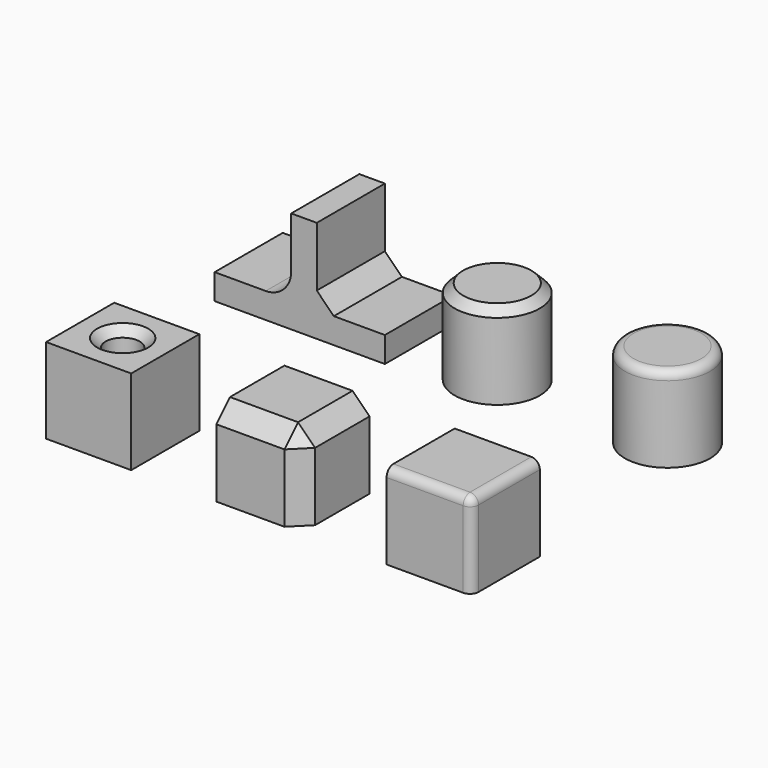
from build123d import *

# Parameters (mm, degrees)
BOX001_W          = 10
BOX001_H          = 10
BOX001_DEPTH      = 10
FILLET_R          = 1
BOX_W             = 10
BOX_H             = 10
BOX_DEPTH         = 10
CHAMFER_SIZE      = 2
CYLINDER_R        = 2
CYLINDER_DEPTH    = 10
BOX002_W          = 10
BOX002_H          = 10
BOX002_DEPTH      = 10
CHAMFER001_SIZE   = 1
CYLINDER001_R     = 5
CYLINDER001_DEPTH = 10
FILLET001_R       = 1
CYLINDER002_R     = 5
CYLINDER002_DEPTH = 10
CHAMFER002_SIZE   = 1
BOX003_W          = 20
BOX003_H          = 10
BOX003_DEPTH      = 3
BOX004_W          = 3
BOX004_H          = 10
BOX004_DEPTH      = 12
CHAMFER003_SIZE   = 2
FILLET002_R       = 3


with BuildPart() as fillet_body:
    # Box001 → Box001 (new body)
    with BuildSketch(Plane(origin=(40, 0, 0), x_dir=(1, 0, 0), z_dir=(0, 0, 1))):
        with Locations((5, 5)):
            Rectangle(BOX001_W, BOX001_H)
    extrude(amount=BOX001_DEPTH)

    # Fillet
    fillet_edges = [fillet_body.edges().sort_by_distance(p)[0] for p in [
        (50, 0, 5),
        (50, 5, 10),
        (45, 0, 10),
    ]]
    fillet(fillet_edges, radius=FILLET_R)


with BuildPart() as chamfer_body:
    # Box → Box (new body)
    with BuildSketch(Plane(origin=(20, 0, 0), x_dir=(1, 0, 0), z_dir=(0, 0, 1))):
        with Locations((5, 5)):
            Rectangle(BOX_W, BOX_H)
    extrude(amount=BOX_DEPTH)

    # Chamfer
    chamfer_edges = [chamfer_body.edges().sort_by_distance(p)[0] for p in [
        (30, 0, 5),
        (30, 5, 10),
        (25, 0, 10),
    ]]
    chamfer(chamfer_edges, length=CHAMFER_SIZE)


with BuildPart() as cylinder:
    # Cylinder → Cylinder (new body)
    with BuildSketch(Plane.XY.offset(1)):
        Circle(CYLINDER_R)
    extrude(amount=CYLINDER_DEPTH)


with BuildPart() as chamfer001:
    # Box002 → Box002 (new body)
    with BuildSketch(Plane(origin=(-5, -5, 0), x_dir=(1, 0, 0), z_dir=(0, 0, 1))):
        with Locations((5, 5)):
            Rectangle(BOX002_W, BOX002_H)
    extrude(amount=BOX002_DEPTH)

    # Cut: cut Cylinder
    add(cylinder.part, mode=Mode.SUBTRACT)


with BuildPart() as chamfer001_1:
    # Cut placement: moved
    add(chamfer001.part.moved(Location((5, 5, 0))))

    # Chamfer001
    chamfer001_edges = [chamfer001_1.edges().sort_by_distance(p)[0] for p in [
        (3, 5, 10),
    ]]
    chamfer(chamfer001_edges, length=CHAMFER001_SIZE)


with BuildPart() as fillet001:
    # Cylinder001 → Cylinder001 (new body)
    with BuildSketch(Plane(origin=(45, 35, 0), x_dir=(1, 0, 0), z_dir=(0, 0, 1))):
        Circle(CYLINDER001_R)
    extrude(amount=CYLINDER001_DEPTH)

    # Fillet001
    fillet001_edges = [fillet001.edges().sort_by_distance(p)[0] for p in [
        (40, 35, 10),
    ]]
    fillet(fillet001_edges, radius=FILLET001_R)


with BuildPart() as chamfer002:
    # Cylinder002 → Cylinder002 (new body)
    with BuildSketch(Plane(origin=(25, 35, 0), x_dir=(1, 0, 0), z_dir=(0, 0, 1))):
        Circle(CYLINDER002_R)
    extrude(amount=CYLINDER002_DEPTH)

    # Chamfer002
    chamfer002_edges = [chamfer002.edges().sort_by_distance(p)[0] for p in [
        (20, 35, 10),
    ]]
    chamfer(chamfer002_edges, length=CHAMFER002_SIZE)


with BuildPart() as base:
    # Box003 → Box003 (new body)
    with BuildSketch(Plane.XY):
        with Locations((10, 5)):
            Rectangle(BOX003_W, BOX003_H)
    extrude(amount=BOX003_DEPTH)


with BuildPart() as fillet002:
    # Box004 → Box004 (new body)
    with BuildSketch(Plane(origin=(9, 0, 0), x_dir=(1, 0, 0), z_dir=(0, 0, 1))):
        with Locations((1.5, 5)):
            Rectangle(BOX004_W, BOX004_H)
    extrude(amount=BOX004_DEPTH)

    # Fusion: union base
    add(base.part)


with BuildPart() as fillet002_1:
    # Fusion placement: moved
    add(fillet002.part.moved(Location((-5, 31, 0))))

    # Chamfer003
    chamfer003_edges = [fillet002_1.edges().sort_by_distance(p)[0] for p in [
        (7, 36, 3),
    ]]
    chamfer(chamfer003_edges, length=CHAMFER003_SIZE)

    # Fillet002
    fillet002_edges = [fillet002_1.edges().sort_by_distance(p)[0] for p in [
        (4, 36, 3),
    ]]
    fillet(fillet002_edges, radius=FILLET002_R)


solid = Compound([fillet_body.part, chamfer_body.part, chamfer001_1.part, fillet001.part, chamfer002.part, fillet002_1.part])
